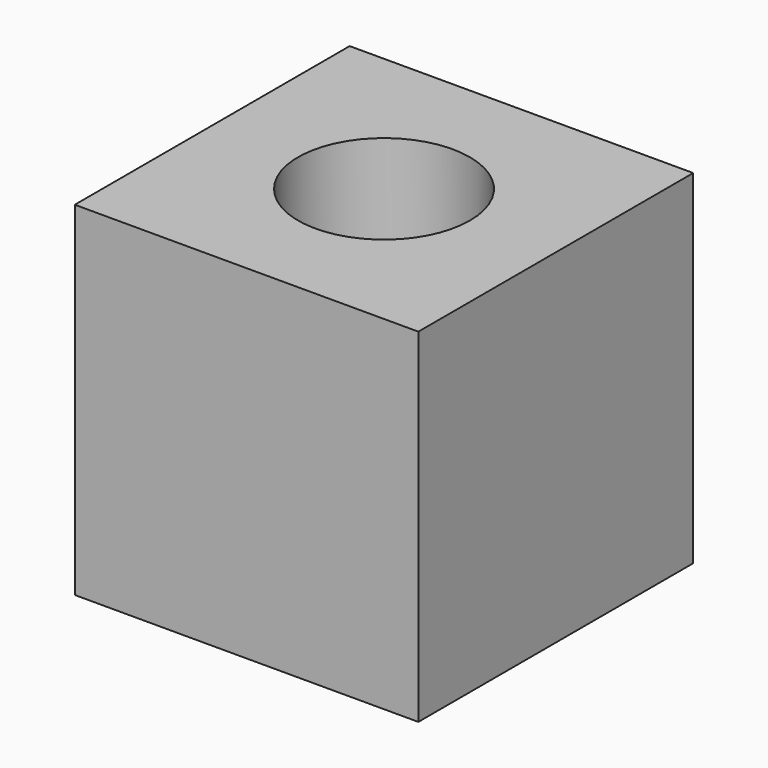
from build123d import *

# Parameters (mm, degrees)
F0_W     = 101.6
F0_H     = 101.6
F1_DEPTH = 50.8
F2_R     = 25.4
F3_DEPTH = 50.8


with BuildPart() as f1:
    # F0 (on Front) → F1 (new body, symmetric)
    with BuildSketch(Plane.XZ):
        Rectangle(F0_W, F0_H)
    extrude(amount=F1_DEPTH, both=True)

    # F2 (on Top) → F3 (cut, symmetric)
    with BuildSketch(Plane.XY):
        Circle(F2_R)
    extrude(amount=F3_DEPTH, both=True, mode=Mode.SUBTRACT)


solid = f1.part
